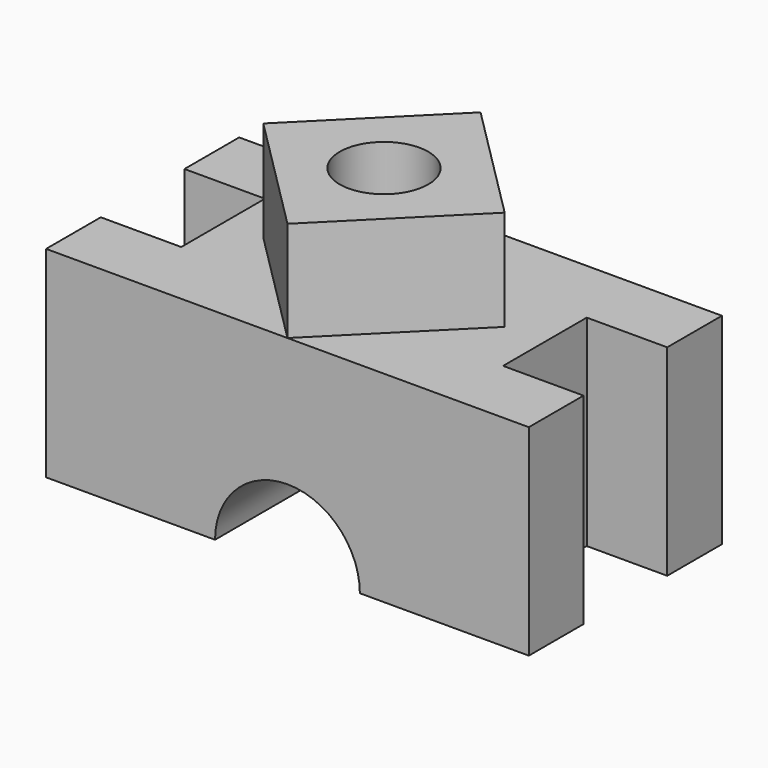
from build123d import *

# Parameters (mm, degrees)
F1_DEPTH  = 1524
F2_W      = 508
F2_H      = 660.4
F3_DEPTH  = 25.4
F3_FACE_W = 508
F3_FACE_H = 660.4
F4_DEPTH  = 1295.401
F6_DEPTH  = 635
F7_R      = 279.4
F8_DEPTH  = 1905.001


with BuildPart() as f1:
    # F0 (on Front) → F1 (new body)
    with BuildSketch(Plane.XZ):
        with BuildLine():
            Line((-1524, 635), (-1524, -635))
            Line((-1524, -635), (-457.2, -635))
            ThreePointArc((-457.2, -635), (0, -177.8), (457.2, -635))
            Line((457.2, -635), (1524, -635))
            Line((1524, -635), (1524, 635))
            Line((1524, 635), (-1524, 635))
        make_face()
    extrude(amount=F1_DEPTH)

    # F2 (on face) → F3 (join)
    with BuildSketch(Plane.XY.offset(635)):
        with Locations((-1270, -762)):
            Rectangle(F2_W, F2_H)
        with Locations((1270, -762)):
            Rectangle(F2_W, F2_H)
    extrude(amount=F3_DEPTH)

    # F3_face (on face) → F4 (cut, through all)
    with BuildSketch(Plane(origin=(-1270, -762, 660.4), x_dir=(1, 0, 0), z_dir=(0, 0, 1))):
        Rectangle(F3_FACE_W, F3_FACE_H)
        with Locations((2540, 0)):
            Rectangle(F3_FACE_W, F3_FACE_H)
    extrude(amount=-F4_DEPTH, mode=Mode.SUBTRACT)

    # F5 (on face) → F6 (join)
    with BuildSketch(Plane.XY.offset(635)):
        Polygon((762, -762), (0, 0), (-762, -762), (0, -1524), align=None)
    extrude(amount=F6_DEPTH)

    # F7 (on face) → F8 (cut, through all)
    with BuildSketch(Plane.XY.offset(1270)):
        with Locations((0, -762)):
            Circle(F7_R)
    extrude(amount=-F8_DEPTH, mode=Mode.SUBTRACT)


solid = f1.part
